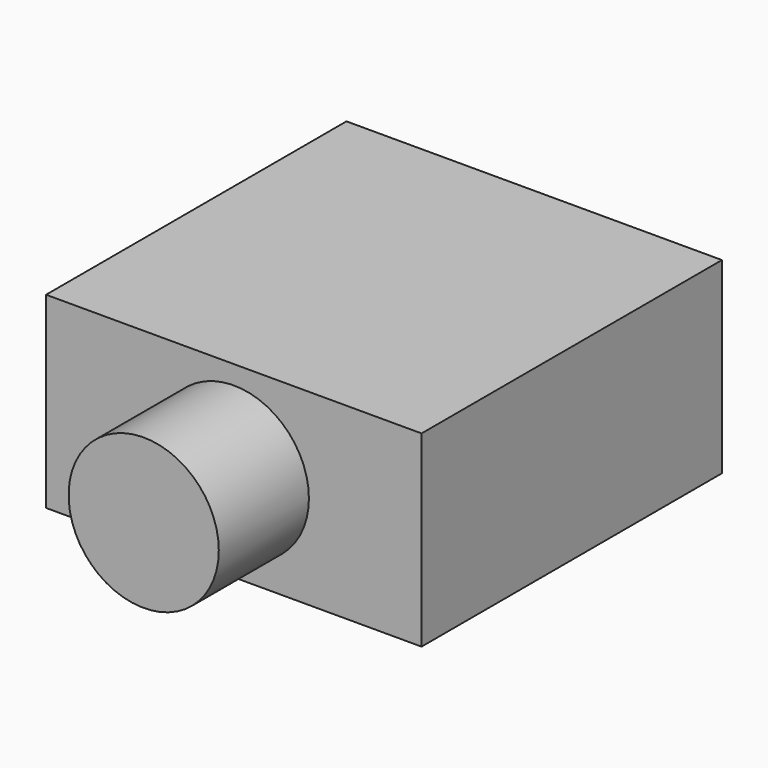
from build123d import *

# Parameters (mm, degrees)
F0_W     = 50
F0_H     = 50
F1_DEPTH = 25
F3_R     = 10
F4_DEPTH = 15


with BuildPart() as f1:
    # F0 (on Top) → F1 (new body)
    with BuildSketch(Plane.XY):
        Rectangle(F0_W, F0_H)
    extrude(amount=F1_DEPTH)


with BuildPart() as f4:
    # F3 (on offset) → F4 (new body)
    with BuildSketch(Plane.XZ.offset(25)):
        with Locations((0, 12.5)):
            Circle(F3_R)
    extrude(amount=F4_DEPTH)


solid = Compound([f1.part, f4.part])
